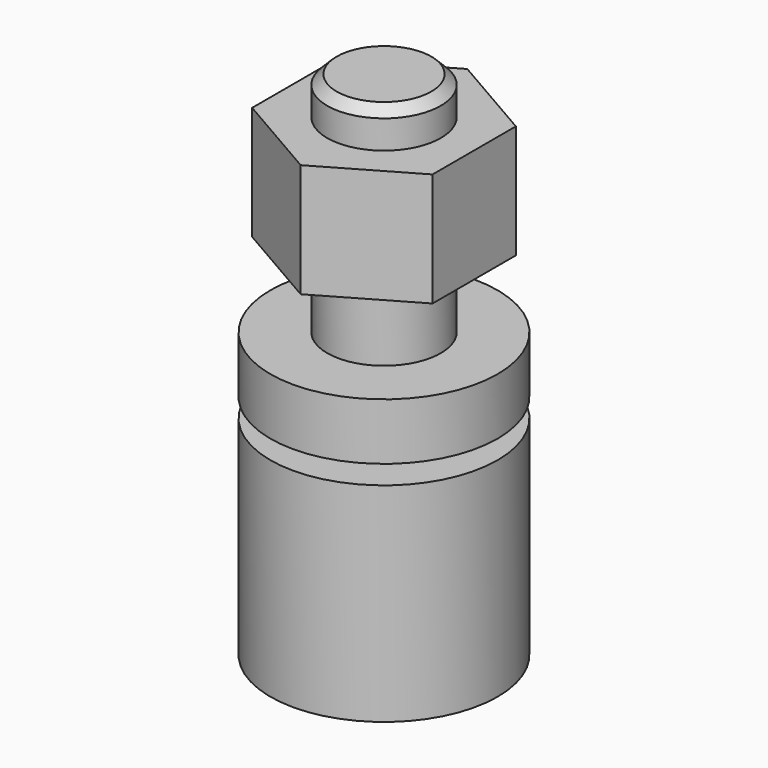
from build123d import *

# Parameters (mm, degrees)
F3_DEPTH = 6


with BuildPart() as f1:
    # F0 (on Front) → F1 (revolve)
    with BuildSketch(Plane.XZ):
        Polygon((0, -19), (0, 8), (-2.5, 8), (-3, 7.5), (-3, 6), (-5.5, 6), (-5.5, 0), (-3, 0), (-3, -4), (-6, -4), (-6, -7), (-3, -7), (-3, -9), (-4, -9), (-4, -8), (-6, -8), (-6, -19), align=None)
    revolve(axis=Axis((0, 0, -5.5), (0, 0, 1)))

    # F2 (on face) → F3 (cut, through all)
    with BuildSketch(Plane.XY.offset(6)):
        with BuildLine():
            Line((-4.76314, -2.75), (-4.76314, 2.75))
            ThreePointArc((-4.76314, 2.75), (-5.5, 0), (-4.76314, -2.75))
        make_face()
        with BuildLine():
            Line((0, -5.5), (-4.76314, -2.75))
            ThreePointArc((-4.76314, -2.75), (-2.75, -4.76314), (0, -5.5))
        make_face()
        with BuildLine():
            ThreePointArc((0, -5.5), (2.75, -4.76314), (4.76314, -2.75))
            Line((4.76314, -2.75), (0, -5.5))
        make_face()
        with BuildLine():
            ThreePointArc((5.5, 0), (5.312592, 1.423505), (4.76314, 2.75))
            Line((4.76314, 2.75), (4.76314, -2.75))
            ThreePointArc((4.76314, -2.75), (5.312592, -1.423505), (5.5, 0))
        make_face()
        with BuildLine():
            ThreePointArc((4.76314, 2.75), (2.75, 4.76314), (0, 5.5))
            Line((0, 5.5), (4.76314, 2.75))
        make_face()
        with BuildLine():
            Line((-4.76314, 2.75), (0, 5.5))
            ThreePointArc((0, 5.5), (-2.75, 4.76314), (-4.76314, 2.75))
        make_face()
    extrude(amount=-F3_DEPTH, mode=Mode.SUBTRACT)


solid = f1.part
